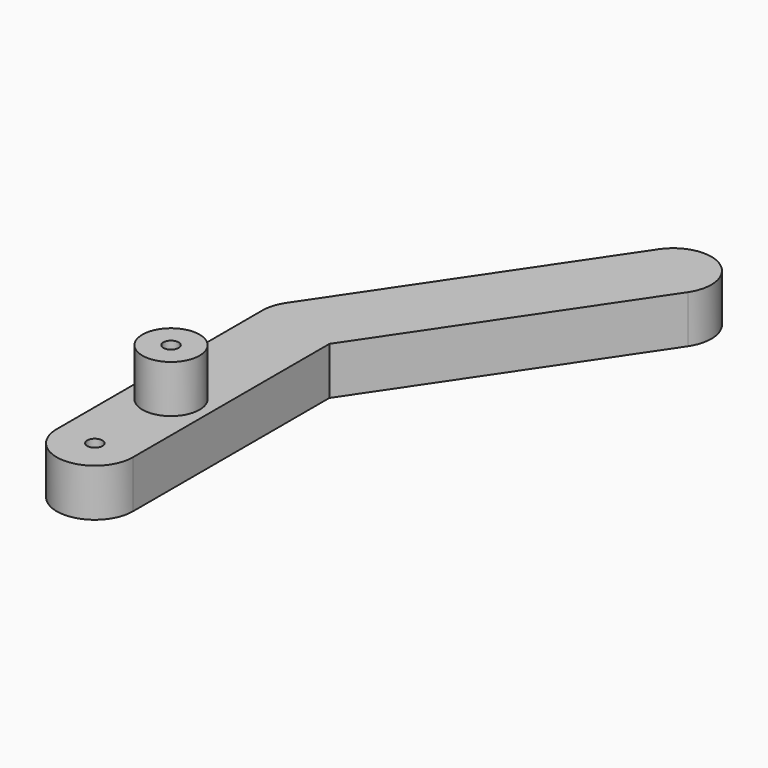
from build123d import *

# Parameters (mm, degrees)
F1_DEPTH       = 6.35
F2_R           = 3.81
F3_DEPTH       = 6.35
F4_D           = 2.032
F4_CSINK_D     = 3.175
F4_CSINK_ANGLE = 82
F5_D           = 2.032


with BuildPart() as f1:
    # F0 (on Top) → F1 (new body)
    with BuildSketch(Plane.XY):
        with BuildLine():
            ThreePointArc((-4.2115108686, 6.1978799769), (-0.9693096965, 8.3438461191), (2.8406999496, 7.5686908958))
            ThreePointArc((2.8406999496, 7.5686908958), (4.4853737717, 5.7420955662), (5.08, 3.3571800272))
            Line((5.08, 3.3571800272), (5.08, 1.8040681654))
            Line((5.08, 1.8040681654), (26.9371104656, 34.2085670262))
            ThreePointArc((26.9371104656, 34.2085670262), (25.5662995467, 41.2607778444), (18.5140887285, 39.8899669255))
            Line((18.5140887285, 39.8899669255), (-4.2115108686, 6.1978799769))
        make_face()
        with BuildLine():
            Line((0, 3.3571800272), (0, -1.7228199728))
            ThreePointArc((0, -1.7228199728), (2.384915539, -1.1281937445), (4.2115108686, 0.5164800776))
            Line((4.2115108686, 0.5164800776), (5.08, 1.8040681654))
            Line((5.08, 1.8040681654), (5.08, 3.3571800272))
            ThreePointArc((5.08, 3.3571800272), (4.4853737717, 5.7420955662), (2.8406999496, 7.5686908958))
            Line((2.8406999496, 7.5686908958), (0, 3.3571800272))
        make_face()
        with BuildLine():
            ThreePointArc((4.2115108686, 0.5164800776), (2.384915539, -1.1281937445), (0, -1.7228199728))
            ThreePointArc((0, -1.7228199728), (-3.5921024484, -0.2349224212), (-5.08, 3.3571800272))
            Line((-5.08, 3.3571800272), (-5.08, -30.9328199728))
            ThreePointArc((-5.08, -30.9328199728), (0, -36.0128199728), (5.08, -30.9328199728))
            Line((5.08, -30.9328199728), (5.08, 1.8040681654))
            Line((5.08, 1.8040681654), (4.2115108686, 0.5164800776))
        make_face()
        with BuildLine():
            ThreePointArc((-5.08, 3.3571800272), (-3.5921024484, -0.2349224212), (0, -1.7228199728))
            Line((0, -1.7228199728), (0, 3.3571800272))
            Line((0, 3.3571800272), (2.8406999496, 7.5686908958))
            ThreePointArc((2.8406999496, 7.5686908958), (-0.9693096965, 8.3438461191), (-4.2115108686, 6.1978799769))
            ThreePointArc((-4.2115108686, 6.1978799769), (-4.8580281603, 4.8424282872), (-5.08, 3.3571800272))
        make_face()
    extrude(amount=F1_DEPTH)

    # F2 (on face) → F3 (join)
    with BuildSketch(Plane.XY.offset(6.35)):
        with Locations((0, -18.2328199728)):
            Circle(F2_R)
    extrude(amount=F3_DEPTH)

    # F4 (through all)
    with Locations(Plane(origin=(0, 0, 0), x_dir=(1, 0, 0), z_dir=(0, 0, -1))):
        with Locations((0, 18.2328199728)):
            CounterSinkHole(F4_D / 2, F4_CSINK_D / 2, counter_sink_angle=F4_CSINK_ANGLE)

    # F5 (through all)
    with Locations(Plane(origin=(0, 0, 0), x_dir=(1, 0, 0), z_dir=(0, 0, -1))):
        with Locations((0, 30.9328199728)):
            Hole(F5_D / 2)


solid = f1.part
